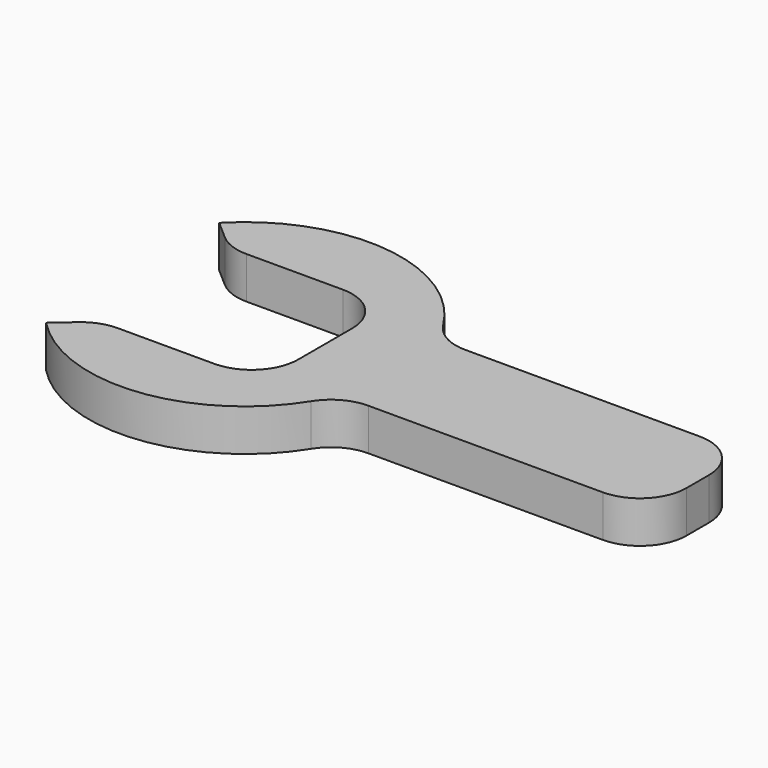
from build123d import *

# Parameters (mm, degrees)
F1_DEPTH = 4.5


with BuildPart() as f1:
    # F0 (on Top) → F1 (new body)
    with BuildSketch(Plane.XY):
        with BuildLine():
            Line((-6.747654, 8.625), (3.625, 8.625))
            ThreePointArc((3.625, 8.625), (7.160534, 7.160534), (8.625, 3.625))
            Line((8.625, 3.625), (8.625, -3.625))
            ThreePointArc((8.625, -3.625), (7.160534, -7.160534), (3.625, -8.625))
            Line((3.625, -8.625), (-6.747654, -8.625))
            ThreePointArc((-6.747654, -8.625), (-8.505197, -8.944076), (-10.038423, -9.860582))
            Line((-10.038423, -9.860582), (-12.049675, -11.618772))
            ThreePointArc((-12.049675, -11.618772), (1.752407, -16.64691), (14.204929, -8.854971))
            ThreePointArc((14.204929, -8.854971), (16.021618, -7.128207), (18.44802, -6.5))
            Line((18.44802, -6.5), (43.625, -6.5))
            ThreePointArc((43.625, -6.5), (47.160534, -5.035534), (48.625, -1.5))
            Line((48.625, -1.5), (48.625, 1.5))
            ThreePointArc((48.625, 1.5), (47.160534, 5.035534), (43.625, 6.5))
            Line((43.625, 6.5), (18.44802, 6.5))
            ThreePointArc((18.44802, 6.5), (16.021618, 7.128207), (14.204929, 8.854971))
            ThreePointArc((14.204929, 8.854971), (1.752407, 16.64691), (-12.049675, 11.618772))
            Line((-12.049675, 11.618772), (-10.038423, 9.860582))
            ThreePointArc((-10.038423, 9.860582), (-8.505197, 8.944076), (-6.747654, 8.625))
        make_face()
    extrude(amount=F1_DEPTH)


solid = f1.part
